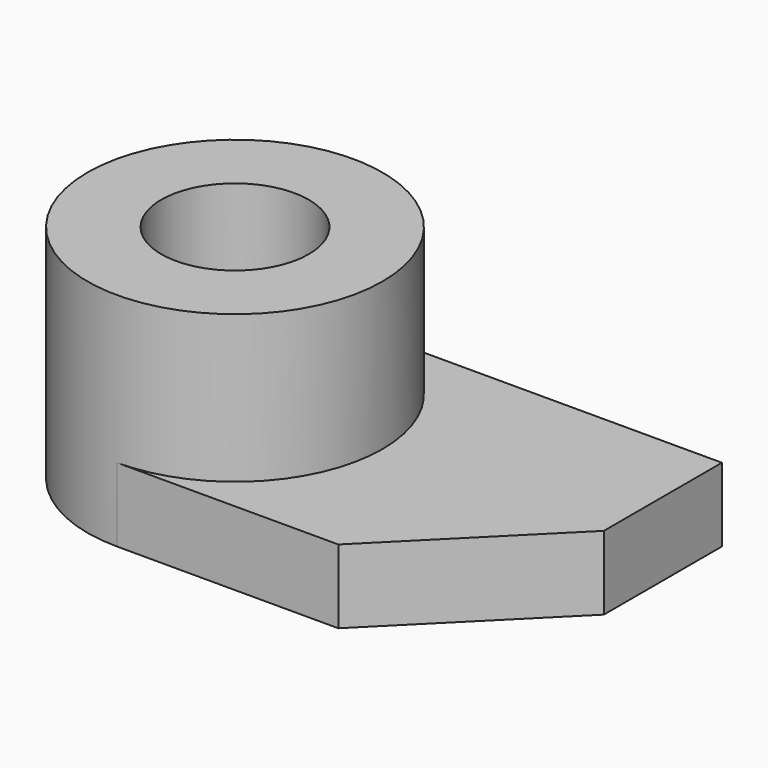
from build123d import *

# Parameters (mm, degrees)
F0_W     = 31.75
F0_H     = 25.4
F1_DEPTH = 6.35
F2_R     = 12.7
F3_DEPTH = 19.05
F4_R     = 6.35
F5_DEPTH = 25.4
F7_DEPTH = 25.4


with BuildPart() as f1:
    # F0 (on Top) → F1 (new body)
    with BuildSketch(Plane.XY):
        with Locations((15.875, 12.7)):
            Rectangle(F0_W, F0_H)
    extrude(amount=F1_DEPTH)

    # F2 (on face) → F3 (join)
    with BuildSketch(Plane(origin=(0, 0, 0), x_dir=(1, 0, 0), z_dir=(0, 0, -1))):
        with Locations((0, -12.7)):
            Circle(F2_R)
    extrude(amount=-F3_DEPTH)

    # F4 (on face) → F5 (cut)
    with BuildSketch(Plane.XY.offset(19.05)):
        with Locations((0, 12.7)):
            Circle(F4_R)
    extrude(amount=-F5_DEPTH, mode=Mode.SUBTRACT)

    # F6 (on face) → F7 (cut)
    with BuildSketch(Plane.XY.offset(6.35)):
        Polygon((19.05, 0), (31.75, 0), (31.75, 12.7), align=None)
    extrude(amount=-F7_DEPTH, mode=Mode.SUBTRACT)


solid = f1.part
